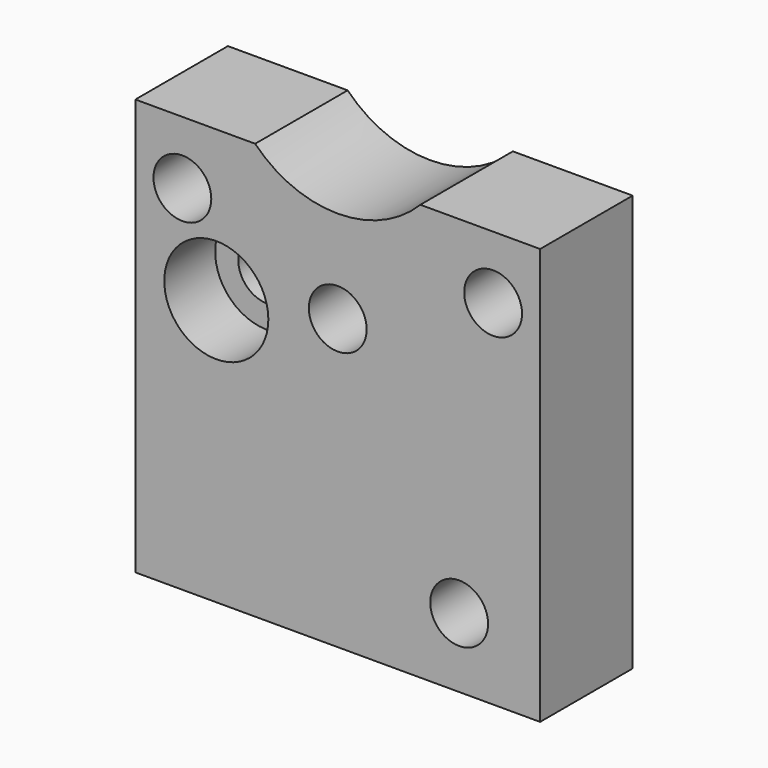
from build123d import *

# Parameters (mm, degrees)
F0_W     = 35
F0_H     = 50
F1_DEPTH = 10
F2_R     = 2.5
F3_DEPTH = 10.001
F4_R     = 2.5
F5_DEPTH = 25
F7_DEPTH = 25
F8_R     = 4.5
F9_DEPTH = 5.5


with BuildPart() as f1:
    # F0 (on Front) → F1 (new body)
    with BuildSketch(Plane.XZ):
        with Locations((17.5, 25)):
            Rectangle(F0_W, F0_H)
    extrude(amount=-F1_DEPTH)

    # F2 (on face) → F3 (cut, through all)
    with BuildSketch(Plane.XZ):
        with Locations((28, 6)):
            Circle(F2_R)
        with Locations((7, 23)):
            Circle(F2_R)
    extrude(amount=-F3_DEPTH, mode=Mode.SUBTRACT)

    # F4 (on face) → F5 (cut)
    with BuildSketch(Plane.XZ):
        with Locations((17.5, 25)):
            Circle(F4_R)
        with Locations((4.064971, 30.564971)):
            Circle(F4_R)
        with Locations((30.935029, 30.564971)):
            Circle(F4_R)
    extrude(amount=-F5_DEPTH, mode=Mode.SUBTRACT)

    # F6 (on face) → F7 (cut)
    with BuildSketch(Plane.XZ):
        with BuildLine():
            Line((0, 36), (10.358572, 36))
            ThreePointArc((10.358572, 36), (17.5, 33), (24.641428, 36))
            Line((24.641428, 36), (35, 36))
            Line((35, 36), (35, 50))
            Line((35, 50), (0, 50))
            Line((0, 50), (0, 36))
        make_face()
    extrude(amount=-F7_DEPTH, mode=Mode.SUBTRACT)

    # F8 (on face) → F9 (cut)
    with BuildSketch(Plane.XZ):
        with Locations((7, 23)):
            Circle(F8_R)
    extrude(amount=-F9_DEPTH, mode=Mode.SUBTRACT)


solid = f1.part
